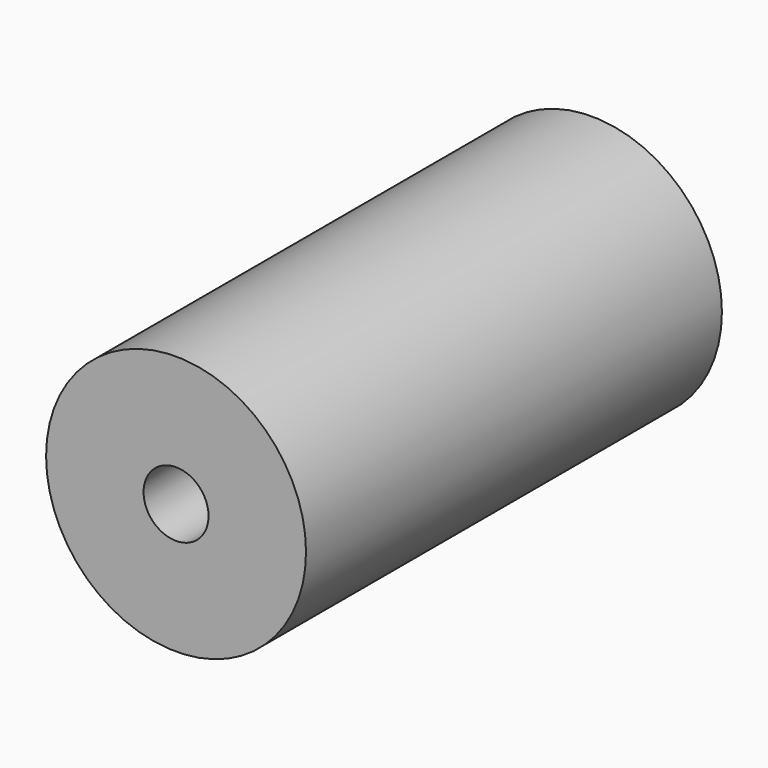
from build123d import *

# Parameters (mm, degrees)
F0_R           = 25.4
F1_DEPTH       = 101.6
F3_D           = 6.35
F3_CBORE_D     = 12.7
F3_CBORE_DEPTH = 50.8


with BuildPart() as f1:
    # F0 (on Front) → F1 (new body)
    with BuildSketch(Plane.XZ):
        Circle(F0_R)
        Circle(F0_R)
    extrude(amount=F1_DEPTH)

    # F3 (through all)
    with Locations(Plane.XZ.offset(101.6)):
        with Locations((0, 0)):
            CounterBoreHole(F3_D / 2, F3_CBORE_D / 2, F3_CBORE_DEPTH)


solid = f1.part
